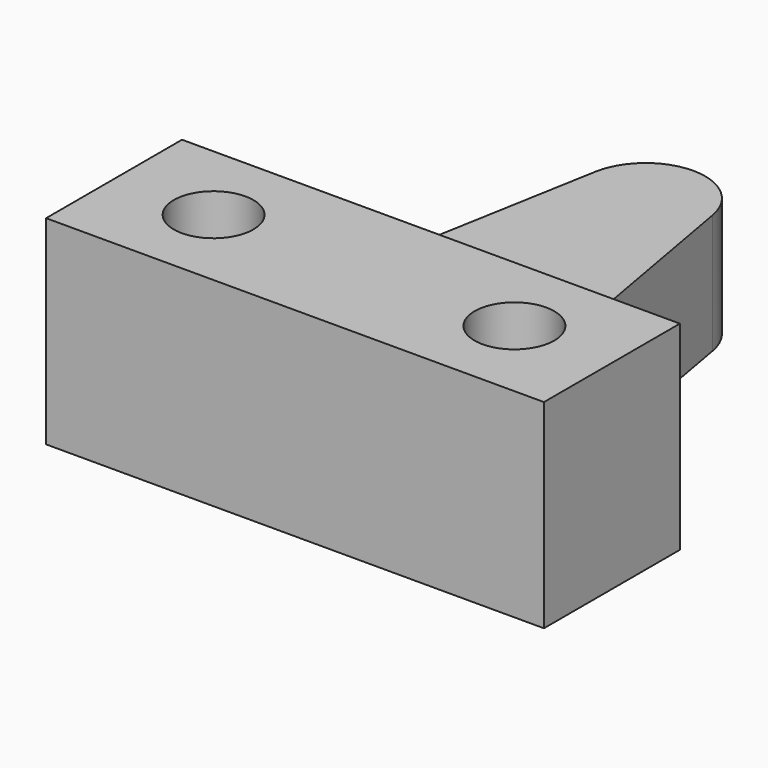
from build123d import *

# Parameters (mm, degrees)
SKETCH001_R  = 2
PAD_DEPTH    = 6
SKETCH_W     = 25
SKETCH_H     = 8.532326
SKETCH_R     = 2
PAD001_DEPTH = 4


with BuildPart() as part:
    # Sketch001 → Pad (new body)
    with BuildSketch(Plane.XY):
        with BuildLine():
            Line((0, -0.513451), (12.5, -0.513451))
            Line((12.5, -0.513451), (12.5, 8.018875))
            Line((12.5, 8.018875), (5.444822, 8.018875))
            Line((5.444822, 8.018875), (2.947073, 22.018734))
            ThreePointArc((2.947073, 22.018734), (1.921936, 23.788122), (0, 24.486549))
            ThreePointArc((0, 24.486549), (-1.921936, 23.788122), (-2.947073, 22.018734))
            Line((-5.444822, 8.018875), (-2.947073, 22.018734))
            Line((-12.5, 8.018875), (-5.444822, 8.018875))
            Line((-12.5, -0.513451), (-12.5, 8.018875))
            Line((0, -0.513451), (-12.5, -0.513451))
        make_face()
        with Locations((-7.553649, 3.816244)):
            Circle(SKETCH001_R, mode=Mode.SUBTRACT)
        with Locations((7.553649, 3.816244)):
            Circle(SKETCH001_R, mode=Mode.SUBTRACT)
    extrude(amount=PAD_DEPTH)

    # Sketch → Pad001 (new body)
    with BuildSketch(Plane.XY.offset(6)):
        with Locations((0, 3.752712)):
            Rectangle(SKETCH_W, SKETCH_H)
        with Locations((-7.553649, 3.816244)):
            Circle(SKETCH_R, mode=Mode.SUBTRACT)
        with Locations((7.553649, 3.816244)):
            Circle(SKETCH_R, mode=Mode.SUBTRACT)
    extrude(amount=PAD001_DEPTH)


solid = part.part
